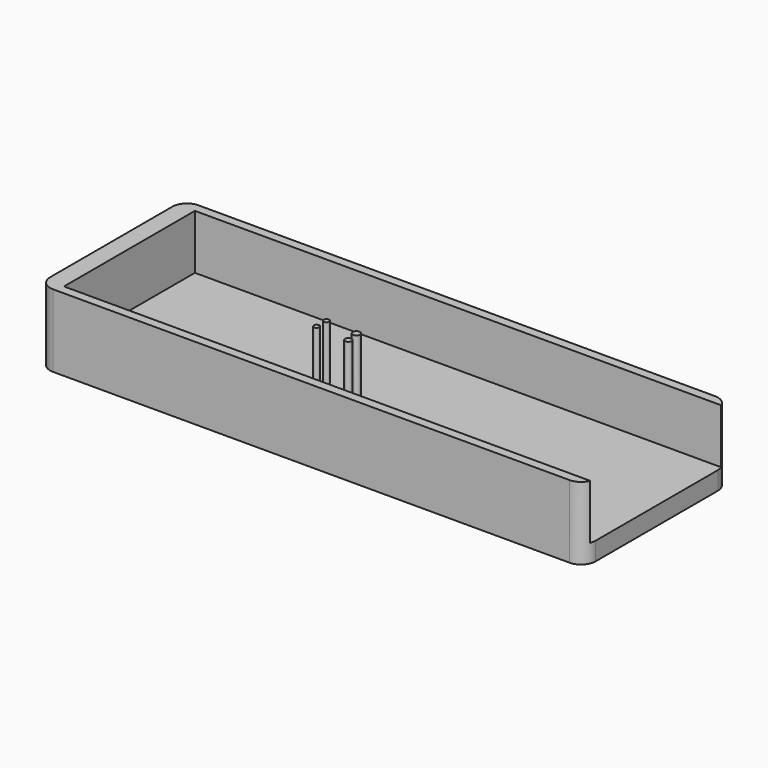
from build123d import *

# Parameters (mm, degrees)
F0_W     = 190.5
F0_H     = 63.5
F1_DEPTH = 25.4
F2_W     = 184.15
F2_H     = 57.15
F3_DEPTH = 19.05
F4_R     = 0.952499
F4_R_2   = 0.949023
F4_R_3   = 1.27
F4_R_4   = 1.12437
F5_DEPTH = 19.05
F6_R     = 5.08


with BuildPart() as f1:
    # F0 (on Top) → F1 (new body)
    with BuildSketch(Plane.XY):
        Rectangle(F0_W, F0_H)
    extrude(amount=F1_DEPTH)

    # F2 (on face) → F3 (cut)
    with BuildSketch(Plane.XY.offset(25.4)):
        with Locations((3.175, 0)):
            Rectangle(F2_W, F2_H)
    extrude(amount=-F3_DEPTH, mode=Mode.SUBTRACT)

    # F6
    f6_edges = [f1.edges().sort_by_distance(p)[0] for p in [
        (-95.25, -31.75, 12.7),
        (-95.25, 31.75, 12.7),
        (95.25, 31.75, 12.7),
        (95.25, -31.75, 12.7),
    ]]
    fillet(f6_edges, radius=F6_R)


with BuildPart() as f5:
    # F4 (on face) → F5 (new body)
    with BuildSketch(Plane.XY.offset(6.35)):
        with Locations((-20.356032, 0.35835)):
            Circle(F4_R)
        with Locations((-20.396684, -3.910078)):
            Circle(F4_R_2)
        with Locations((-9.339423, -0.373381)):
            Circle(F4_R_3)
        with Locations((-8.607691, -4.804415)):
            Circle(F4_R_4)
    extrude(amount=F5_DEPTH)


solid = Compound([f1.part, f5.part])
